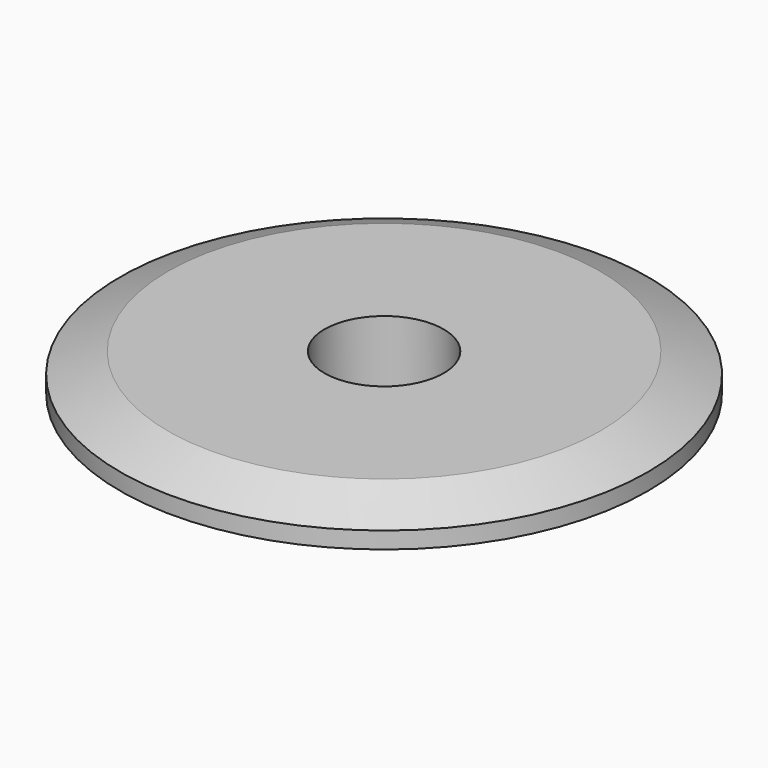
from build123d import *

# Parameters (mm, degrees)
F0_R     = 38.7
F1_DEPTH = 5.45
F2_R     = 28.6
F3_DEPTH = 5
F4_SIZE2 = 3
F4_SIZE  = 7
F5_R     = 2
F12_D    = 17.4625


with BuildPart() as f1:
    # F0 (on Top) → F1 (new body)
    with BuildSketch(Plane.XY):
        Circle(F0_R)
    extrude(amount=F1_DEPTH)

    # F2 (on face) → F3 (join)
    with BuildSketch(Plane(origin=(0, 0, 0), x_dir=(1, 0, 0), z_dir=(0, 0, -1))):
        Circle(F2_R)
    extrude(amount=F3_DEPTH)

    # F4
    f4_edges = [f1.edges().sort_by_distance(p)[0] for p in [
        (-38.7, 0, 5.45),
    ]]
    f4_side = f1.faces().sort_by_distance((0, 0, 5.45))[0]
    chamfer(f4_edges, length=F4_SIZE, length2=F4_SIZE2, reference=f4_side)

    # F5
    f5_edges = [f1.edges().sort_by_distance(p)[0] for p in [
        (-28.6, 0, -5),
    ]]
    fillet(f5_edges, radius=F5_R)

    # F9 (on 3pt) → F11 (revolve, cut)
    with BuildSketch(Plane(origin=(0, 0, 0), x_dir=(0, -1, 0), z_dir=(-1, 0, 0))):
        with BuildLine():
            Line((33.8, 0), (37, 0))
            ThreePointArc((37, 0), (35.4, 1.2468871126), (33.8, 0))
        make_face()
    revolve(axis=Axis((0, 0, 7.6663349755), (0, 0, -1)), mode=Mode.SUBTRACT)

    # F12 (through all)
    with Locations(Plane(origin=(0, 0, -5), x_dir=(1, 0, 0), z_dir=(0, 0, -1))):
        with Locations((0, 0)):
            Hole(F12_D / 2)


solid = f1.part
